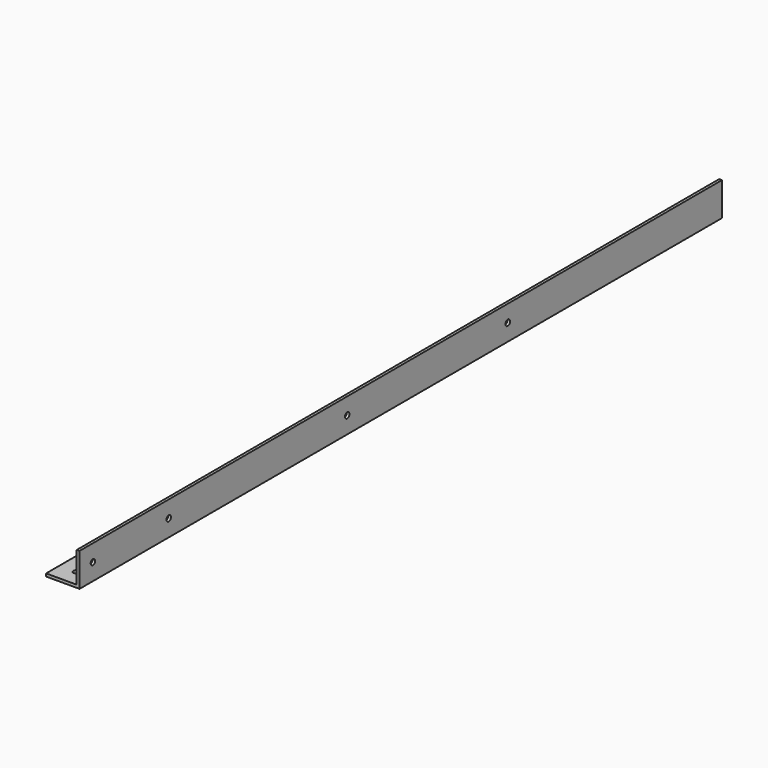
from build123d import *

# Parameters (mm, degrees)
F1_DEPTH = 203.2
F2_DEPTH = 914.4
F3_R     = 3.302
F3_R_2   = 3.175
F4_DEPTH = 32.71062
F5_R     = 3.175
F6_DEPTH = 25.4


with BuildPart() as f1:
    # F0 (on Front) → F1 (new body)
    with BuildSketch(Plane.XZ):
        Polygon((-19.05, -15.875), (-19.05, -19.05), (19.05, -19.05), (19.05, 19.05), (15.875, 19.05), (15.875, -15.875), align=None)
    extrude(amount=-F1_DEPTH)

    # F0 (on Front) → F2 (join)
    with BuildSketch(Plane.XZ):
        Polygon((-19.05, -15.875), (-19.05, -19.05), (19.05, -19.05), (19.05, 19.05), (15.875, 19.05), (15.875, -15.875), align=None)
    extrude(amount=-F2_DEPTH)

    # F3 (on face) → F4 (cut)
    with BuildSketch(Plane(origin=(15.875, 0, 0), x_dir=(0, -1, 0), z_dir=(-1, 0, 0))):
        with Locations((-609.6, 0)):
            Circle(F3_R)
        with Locations((-19.05, 0)):
            Circle(F3_R_2)
        with Locations((-127, 0)):
            Circle(F3_R_2)
        with Locations((-381, 0)):
            Circle(F3_R_2)
    extrude(amount=-F4_DEPTH, mode=Mode.SUBTRACT)

    # F5 (on face) → F6 (cut)
    with BuildSketch(Plane(origin=(0, 0, -19.05), x_dir=(1, 0, 0), z_dir=(0, 0, -1))):
        with Locations((0, -609.6)):
            Circle(F5_R)
        with Locations((0, -19.05)):
            Circle(F5_R)
        with Locations((0, -127)):
            Circle(F5_R)
        with Locations((0, -381)):
            Circle(F5_R)
    extrude(amount=-F6_DEPTH, mode=Mode.SUBTRACT)


solid = f1.part
